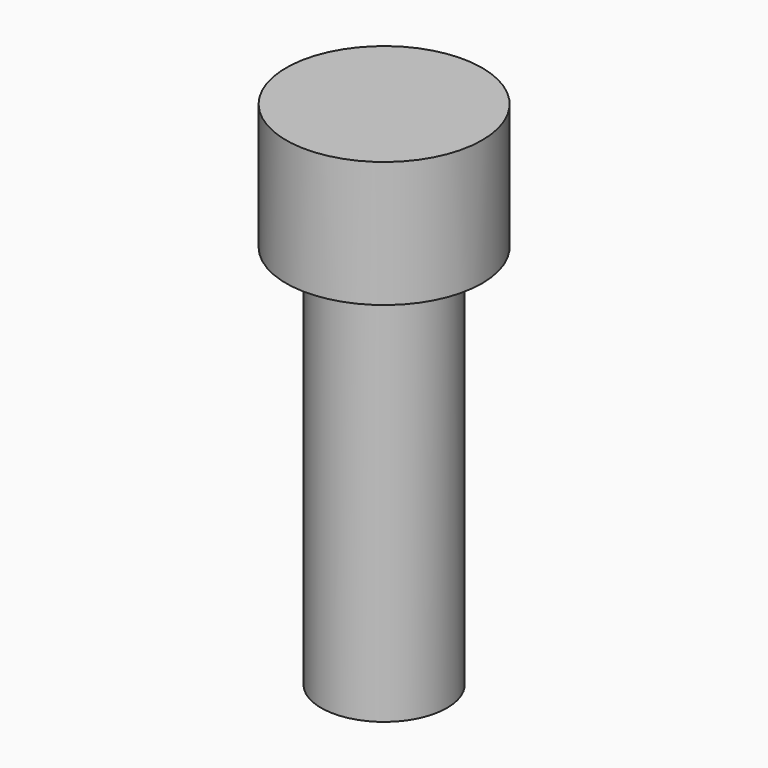
from build123d import *

# Parameters (mm, degrees)
F0_R     = 11.1125
F1_DEPTH = 7.1374
F2_R     = 7.1374
F3_DEPTH = 50.8
F4_R     = 2.5527
F5_DEPTH = 12.7


with BuildPart() as f1:
    # F0 (on Top) → F1 (new body, symmetric)
    with BuildSketch(Plane.XY):
        Circle(F0_R)
    extrude(amount=F1_DEPTH, both=True)

    # F2 (on Top) → F3 (join)
    with BuildSketch(Plane.XY):
        Circle(F2_R)
    extrude(amount=-F3_DEPTH)

    # F4 (on face) → F5 (cut)
    with BuildSketch(Plane(origin=(0, 0, -50.8), x_dir=(1, 0, 0), z_dir=(0, 0, -1))):
        Circle(F4_R)
    extrude(amount=-F5_DEPTH, mode=Mode.SUBTRACT)


solid = f1.part
